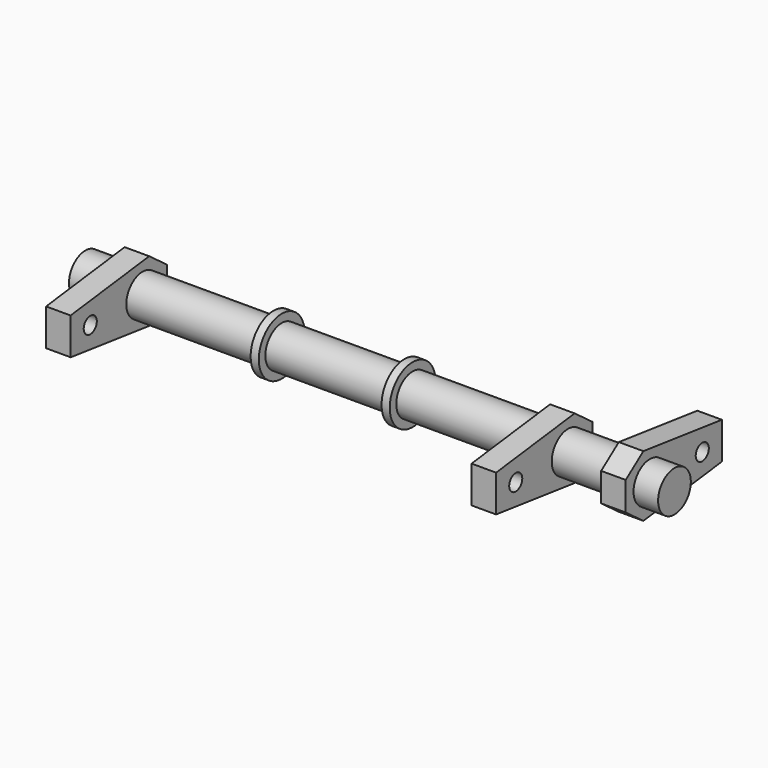
from build123d import *

# Parameters (mm, degrees)
F0_R      = 2.5
F1_DEPTH  = 36
F4_DEPTH  = 3
F6_R      = 3.5
F7_DEPTH  = 1
F9_R      = 3.5
F10_DEPTH = 1
F13_DEPTH = 3
F16_DEPTH = 3
F18_R     = 1
F19_DEPTH = 69.001
F17_R     = 1
F20_DEPTH = 59.001


with BuildPart() as f1:
    # F0 (on Right) → F1 (new body, symmetric)
    with BuildSketch(Plane.YZ):
        Circle(F0_R)
    extrude(amount=F1_DEPTH, both=True)

    # F3 (on offset) → F4 (join)
    with BuildSketch(Plane.YZ.offset(-32)):
        Polygon((3.7, -1.75), (3.7, 1.75), (1, 3.75), (-11, 2.25), (-11, -2.25), (1, -3.75), align=None)
    extrude(amount=F4_DEPTH)

    # F6 (on offset) → F7 (join)
    with BuildSketch(Plane.YZ.offset(-13)):
        Circle(F6_R)
    extrude(amount=F7_DEPTH)

    # F9 (on offset) → F10 (join)
    with BuildSketch(Plane.YZ.offset(3)):
        Circle(F9_R)
    extrude(amount=F10_DEPTH)

    # F12 (on offset) → F13 (join)
    with BuildSketch(Plane.YZ.offset(33)):
        Polygon((-1, 3.75), (-3.7, 1.75), (-3.7, -1.75), (-1, -3.75), (11, -2.25), (11, 2.25), align=None)
    extrude(amount=-F13_DEPTH)

    # F15 (on offset) → F16 (join)
    with BuildSketch(Plane.YZ.offset(23)):
        Polygon((3.7, -1.75), (3.7, 1.75), (1, 3.75), (-11, 2.25), (-11, -2.25), (1, -3.75), align=None)
    extrude(amount=-F16_DEPTH)

    # F18 (on face) → F19 (cut, through all)
    with BuildSketch(Plane.YZ.offset(33)):
        with Locations((8, 0)):
            Circle(F18_R)
    extrude(amount=-F19_DEPTH, mode=Mode.SUBTRACT)

    # F17 (on face) → F20 (cut, through all)
    with BuildSketch(Plane.YZ.offset(23)):
        with Locations((-8, 0)):
            Circle(F17_R)
    extrude(amount=-F20_DEPTH, mode=Mode.SUBTRACT)


solid = f1.part
